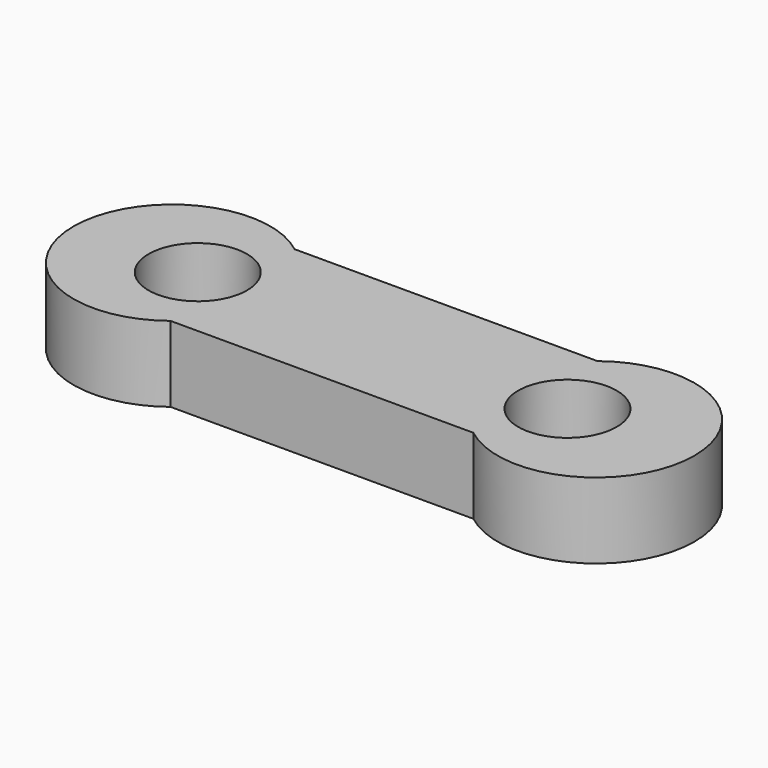
from build123d import *

# Parameters (mm, degrees)
F0_R     = 16.51
F2_DEPTH = 25.4


with BuildPart() as f2:
    # F0 (on Top) → F2 (new body)
    with BuildSketch(Plane.XY):
        with BuildLine():
            Line((38.192224, 26.0861), (38.192224, 26.024584))
            Line((38.192224, 26.024584), (-63.407776, 26.024584))
            Line((-63.407776, 26.024584), (-63.407776, 25.985937))
            ThreePointArc((-63.407776, 25.985937), (-116.800589, 0), (-63.407776, -25.985937))
            Line((-63.407776, -25.985937), (-63.407776, -26.024584))
            Line((-63.407776, -26.024584), (38.192224, -26.024584))
            Line((38.192224, -26.024584), (38.192224, -26.0861))
            ThreePointArc((38.192224, -26.0861), (91.456626, 0), (38.192224, 26.0861))
        make_face()
        with Locations((-75.125739, 0)):
            Circle(F0_R, mode=Mode.SUBTRACT)
        with Locations((48.855066, 0)):
            Circle(F0_R, mode=Mode.SUBTRACT)
    extrude(amount=F2_DEPTH)


solid = f2.part
